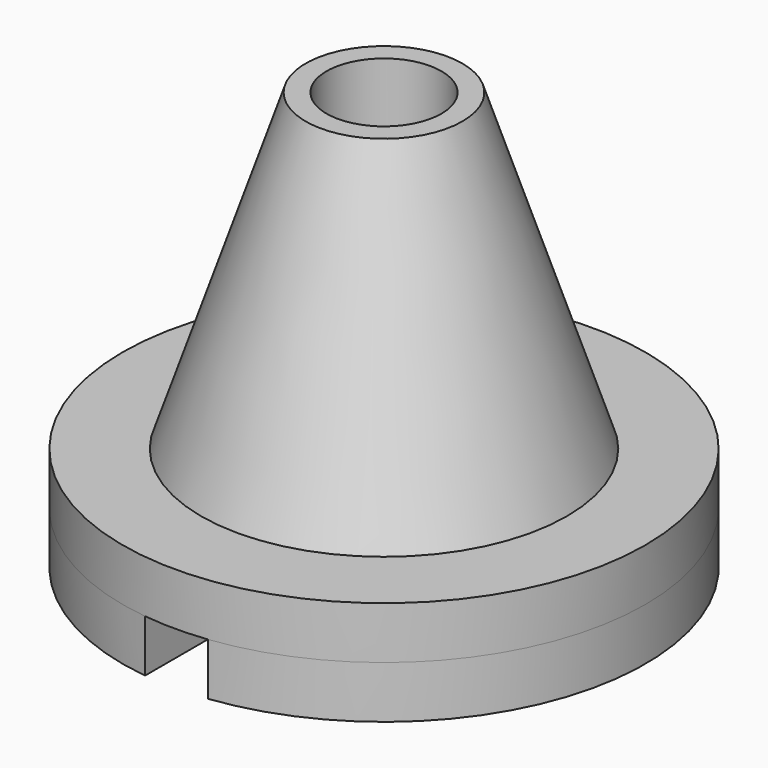
from build123d import *

# Parameters (mm, degrees)
F1_DEPTH = 5
F2_R     = 25
F3_DEPTH = 5
F6_R     = 7.5
F4_R     = 17.5
F8_R     = 5.5
F9_DEPTH = 40


with BuildPart() as f1:
    # F0 (on Top) → F1 (new body)
    with BuildSketch(Plane.XY):
        with BuildLine():
            Line((3, -4.609772), (3, -24.819347))
            ThreePointArc((3, -24.819347), (0, 25), (-3, -24.819347))
            Line((-3, -24.819347), (-3, -4.609772))
            Line((-3, -4.609772), (3, -4.609772))
        make_face()
    extrude(amount=F1_DEPTH)

    # F2 (on face) → F3 (join)
    with BuildSketch(Plane.XY.offset(5)):
        Circle(F2_R)
    extrude(amount=F3_DEPTH)

    # F6 (on offset) → F7 section 0
    with BuildSketch(Plane.XY.offset(40)):
        Circle(F6_R)
    # F4 (on face) → F7 section 1
    with BuildSketch(Plane.XY.offset(10)):
        Circle(F4_R)
    loft()

    # F8 (on face) → F9 (cut, through all)
    with BuildSketch(Plane.XY.offset(40)):
        Circle(F8_R)
    extrude(amount=-F9_DEPTH, mode=Mode.SUBTRACT)


solid = f1.part
